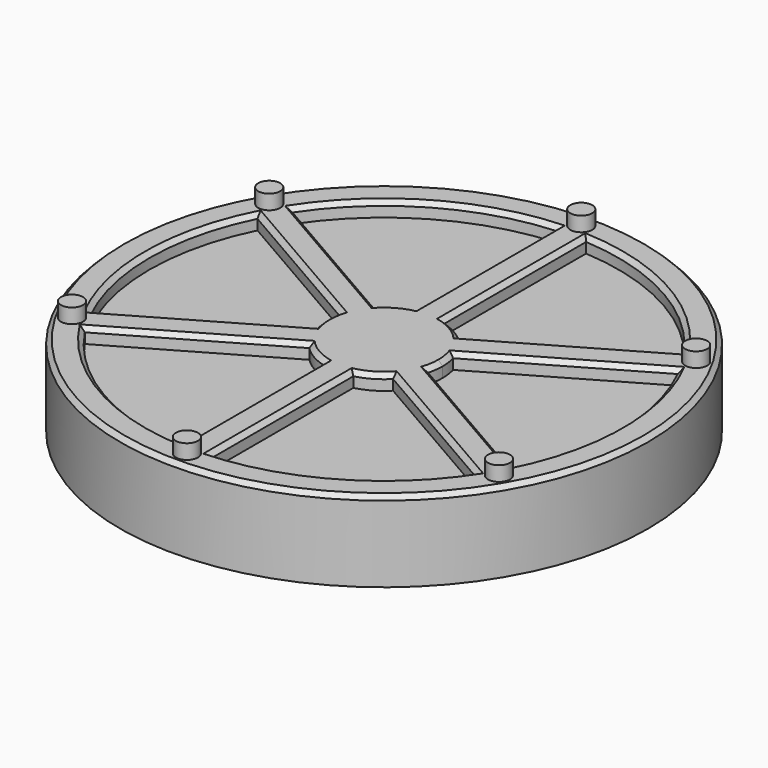
from build123d import *

# Parameters (mm, degrees)
F0_R      = 18
F0_R_2    = 5.95
F1_DEPTH  = 4
F2_R      = 18
F2_R_2    = 16
F3_DEPTH  = 1.5
F5_DEPTH  = 1.5
F6_SIZE   = 0.3
F7_COUNT  = 3
F8_R      = 0.75
F9_DEPTH  = 2.5
F10_COUNT = 6
F11_R     = 17
F12_DEPTH = 0.5
F13_SIZE  = 1


with BuildPart() as f1:
    # F0 (on Top) → F1 (new body)
    with BuildSketch(Plane.XY):
        Circle(F0_R)
        Circle(F0_R_2, mode=Mode.SUBTRACT)
    extrude(amount=-F1_DEPTH)

    # F2 (on Top) → F3 (join)
    with BuildSketch(Plane.XY):
        Circle(F2_R)
        Circle(F2_R_2, mode=Mode.SUBTRACT)
    extrude(amount=F3_DEPTH)

    # F4 (on Top) → F5 (join)
    with BuildSketch(Plane.XY):
        with BuildLine():
            Line((-1, -16.7781973636), (1, -16.7781973636))
            Line((1, -16.7781973636), (1, -3.8729833462))
            ThreePointArc((1, -3.8729833462), (0, -4), (-1, -3.8729833462))
            Line((-1, -3.8729833462), (-1, -16.7781973636))
        make_face()
        with BuildLine():
            ThreePointArc((-1, -3.8729833462), (0, -4), (1, -3.8729833462))
            Line((1, -3.8729833462), (1, 3.8729833462))
            ThreePointArc((1, 3.8729833462), (0, 4), (-1, 3.8729833462))
            Line((-1, 3.8729833462), (-1, -3.8729833462))
        make_face()
        with BuildLine():
            Line((1, 3.8729833462), (1, -3.8729833462))
            ThreePointArc((1, -3.8729833462), (3.1622776602, -2.4494897428), (4, 0))
            ThreePointArc((4, 0), (3.1622776602, 2.4494897428), (1, 3.8729833462))
        make_face()
        with BuildLine():
            ThreePointArc((-1, 3.8729833462), (-4, 0), (-1, -3.8729833462))
            Line((-1, -3.8729833462), (-1, 3.8729833462))
        make_face()
        with BuildLine():
            ThreePointArc((-1, 3.8729833462), (0, 4), (1, 3.8729833462))
            Line((1, 3.8729833462), (1, 16.7781973636))
            Line((1, 16.7781973636), (-1, 16.7781973636))
            Line((-1, 16.7781973636), (-1, 3.8729833462))
        make_face()
    extrude(amount=F5_DEPTH)

    # F6
    f6_edges = [f1.edges().sort_by_distance(p)[0] for p in [
        (-18, 0, 1.5),
        (16, 0, 1.5),
        (1, -9.920851, 1.5),
        (4, 0, 1.5),
        (1, 9.920851, 1.5),
        (-16, 0, 1.5),
        (-1, 9.920851, 1.5),
        (-4, 0, 1.5),
        (-1, -9.920851, 1.5),
    ]]
    chamfer(f6_edges, length=F6_SIZE)

    # F7: F1 ×3 about axis
    f7_axis = Axis((0, 0, 0), (0, 0, 1))


with BuildPart() as f1_1:
    add(f1.part)
    for i in range(1, F7_COUNT):
        add(f1.part.rotate(f7_axis, i * 360 / F7_COUNT))

    # F8 (on Top) → F9 (join)
    with BuildSketch(Plane.XY):
        with Locations((0, -16.8108288199)):
            Circle(F8_R)
    extrude(amount=F9_DEPTH)

    # F10: F1 ×6 about axis
    f10_axis = Axis((0, 0, 1.2), (0, 0, -1))


with BuildPart() as f1_2:
    add(f1_1.part)
    for i in range(1, F10_COUNT):
        add(f1_1.part.rotate(f10_axis, i * 360 / F10_COUNT))

    # F11 (on Top) → F12 (join)
    with BuildSketch(Plane.XY):
        Circle(F11_R)
    extrude(amount=F12_DEPTH)

    # F13
    f13_edges = [f1_2.edges().sort_by_distance(p)[0] for p in [
        (-5.95, 0, 0),
    ]]
    chamfer(f13_edges, length=F13_SIZE)


solid = f1_2.part
